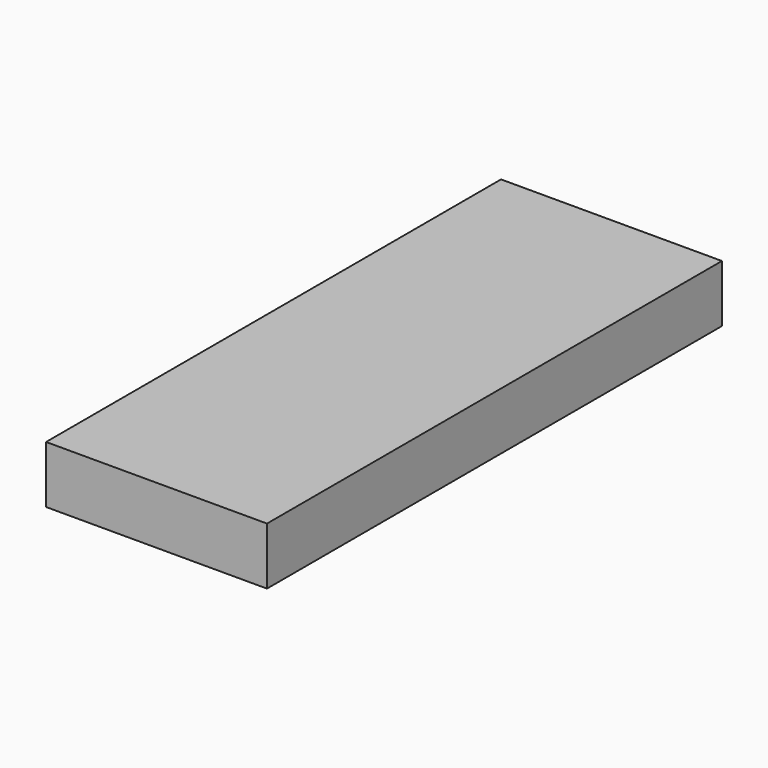
from build123d import *

# Parameters (mm, degrees)
F1_W     = 54
F1_H     = 139
F2_DEPTH = 14
F0_W     = 50.8
F0_H     = 135.7
F3_DEPTH = 12


with BuildPart() as f2:
    # F1 (on Top) → F2 (new body)
    with BuildSketch(Plane.XY):
        Rectangle(F1_W, F1_H)
    extrude(amount=F2_DEPTH)

    # F0 (on Top) → F3 (cut)
    with BuildSketch(Plane.XY):
        Rectangle(F0_W, F0_H)
    extrude(amount=F3_DEPTH, mode=Mode.SUBTRACT)


solid = f2.part
